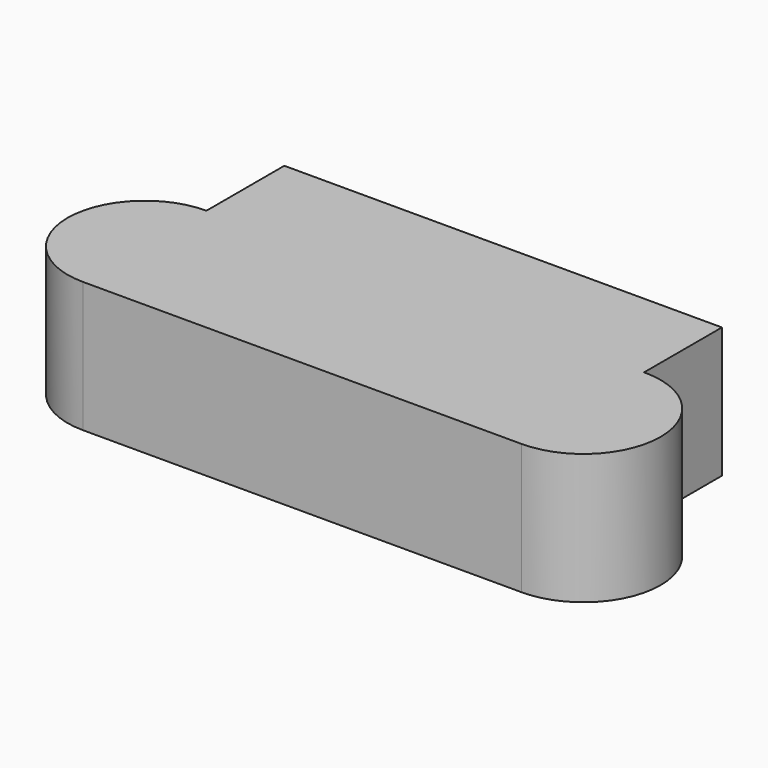
from build123d import *

# Parameters (mm, degrees)
F1_DEPTH = 25.4


with BuildPart() as f1:
    # F0 (on Top) → F1 (new body)
    with BuildSketch(Plane.XY):
        with BuildLine():
            ThreePointArc((-44.240825, 0), (-59.249237, -15.008412), (-44.240825, -30.016825))
            Line((-44.240825, -30.016825), (-1.568824, -30.016825))
            Line((-1.568824, -30.016825), (40.475648, -30.016825))
            Line((40.475648, -30.016825), (41.103177, -30.016825))
            ThreePointArc((41.103177, -30.016825), (56.111589, -15.008412), (41.103177, 0))
            Line((41.103177, 0), (40.894002, 0))
            Line((40.894002, 0), (0, 0))
            Line((0, 0), (-1.568824, 0))
            Line((-1.568824, 0), (-44.240825, 0))
        make_face()
        Polygon((-44.240825, 18.930471), (-44.240825, 0), (-1.568824, 0), (0, 0), (40.894002, 0), (40.894002, 18.930471), align=None)
    extrude(amount=F1_DEPTH)


solid = f1.part
